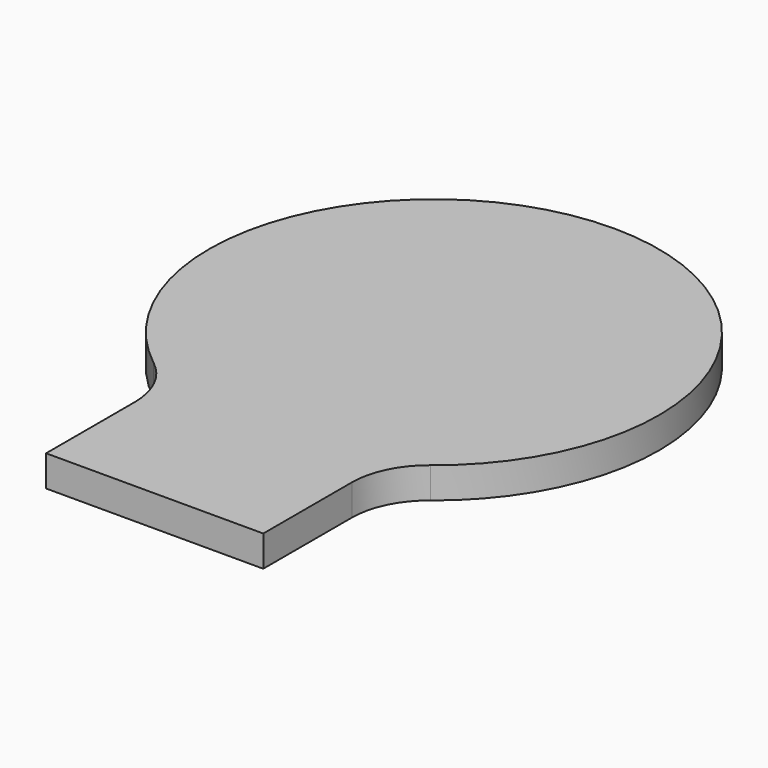
from build123d import *

# Parameters (mm, degrees)
F1_DEPTH = 2
F2_R     = 5
F3_R     = 5


with BuildPart() as f1:
    # F0 (on Top) → F1 (new body)
    with BuildSketch(Plane.XY):
        with BuildLine():
            Line((7, -16.5), (7, -12.698425))
            ThreePointArc((7, -12.698425), (14.042385, 3.614058), (0, 14.5))
            Line((0, 14.5), (0, -22.5))
            Line((0, -22.5), (7, -22.5))
            Line((7, -22.5), (7, -16.5))
        make_face()
        with BuildLine():
            Line((0, -22.5), (0, 14.5))
            ThreePointArc((0, 14.5), (-14.042385, 3.614058), (-7, -12.698425))
            Line((-7, -12.698425), (-7, -16.5))
            Line((-7, -16.5), (-7, -22.5))
            Line((-7, -22.5), (0, -22.5))
        make_face()
    extrude(amount=F1_DEPTH)

    # F2
    f2_edges = [f1.edges().sort_by_distance(p)[0] for p in [
        (-7, -12.698425, 1),
    ]]
    fillet(f2_edges, radius=F2_R)

    # F3
    f3_edges = [f1.edges().sort_by_distance(p)[0] for p in [
        (7, -12.698425, 1),
    ]]
    fillet(f3_edges, radius=F3_R)


solid = f1.part
